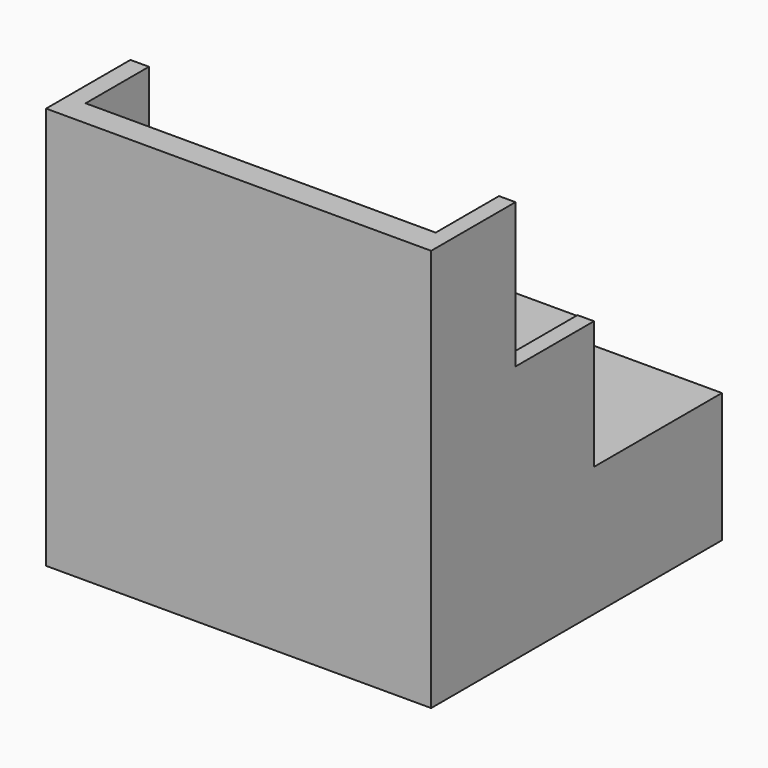
from build123d import *

# Parameters (mm, degrees)
F0_W          = 107.63935
F0_H          = 112.532053
F1_DEPTH      = 50.8
F1_DEPTH_BACK = 50.8
F2_W          = 107.63935
F2_H          = 76.294005
F3_DEPTH      = 44.704
F4_W          = 107.63935
F4_H          = 40.449448
F5_DEPTH      = 27.432
F7_W          = 97.853955
F7_H          = 88.931974
F8_DEPTH      = 41.656


with BuildPart() as f1:
    # F0 (on Front) → F1 (new body, two sides)
    with BuildSketch(Plane.XZ) as f1_sk:
        with Locations((-1.726836, 0.143902)):
            Rectangle(F0_W, F0_H)
    extrude(amount=F1_DEPTH)
    extrude(f1_sk.sketch, amount=-F1_DEPTH_BACK)

    # F2 (on face) → F3 (cut)
    with BuildSketch(Plane(origin=(0, 50.8, 0), x_dir=(-1, 0, 0), z_dir=(0, 1, 0))):
        with Locations((1.726836, 18.262926)):
            Rectangle(F2_W, F2_H)
    extrude(amount=-F3_DEPTH, mode=Mode.SUBTRACT)

    # F4 (on face) → F5 (cut)
    with BuildSketch(Plane(origin=(0, 6.096, 0), x_dir=(-1, 0, 0), z_dir=(0, 1, 0))):
        with Locations((1.726836, 36.185205)):
            Rectangle(F4_W, F4_H)
    extrude(amount=-F5_DEPTH, mode=Mode.SUBTRACT)

    # F7 (on offset) → F8 (cut)
    with BuildSketch(Plane.XY.offset(57.404)):
        with Locations((-1.43903, 1.00732)):
            Rectangle(F7_W, F7_H)
    extrude(amount=-F8_DEPTH, mode=Mode.SUBTRACT)


solid = f1.part
